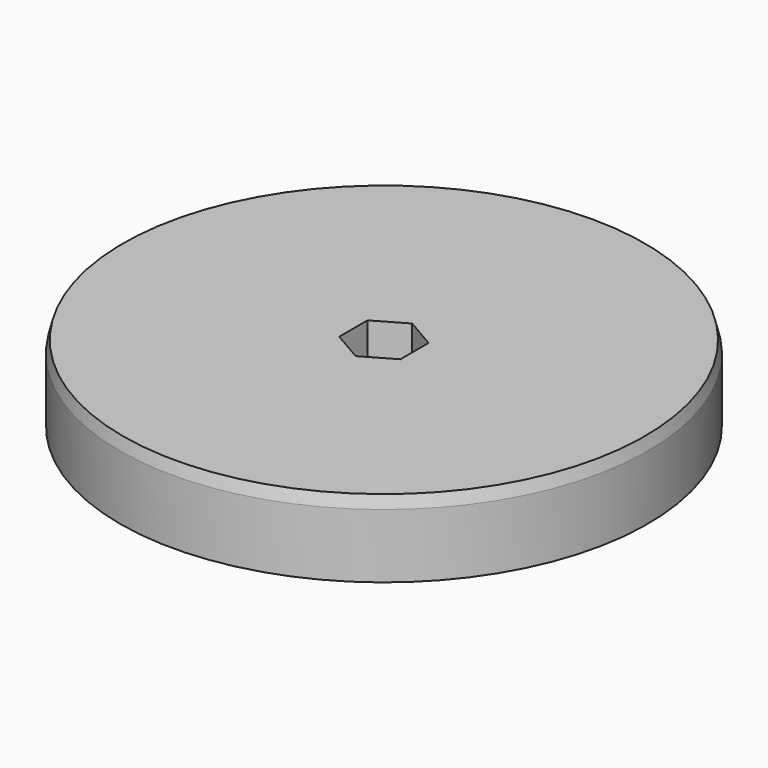
from build123d import *

# Parameters (mm, degrees)
SKETCH001_R       = 3.05
POCKET_DEPTH      = 0.001
POCKET_DEPTH_BACK = -12.701
POCKET001_DEPTH   = 6


with BuildPart() as part:
    # Sketch → Revolution (revolve)
    with BuildSketch(Plane.YZ):
        Polygon((0, 12.7), (43.5, 12.7), (44, 10.7), (44, 0), (0, 0), align=None)
    revolve(axis=Axis((0, 0, 0), (0, 0, 1)))

    # Sketch001 → Pocket (cut, two sides)
    with BuildSketch(Plane.XY) as pocket_sk:
        Circle(SKETCH001_R)
    extrude(amount=-POCKET_DEPTH, mode=Mode.SUBTRACT)
    extrude(pocket_sk.sketch, amount=-POCKET_DEPTH_BACK, mode=Mode.SUBTRACT)

    # Sketch002 → Pocket001 (cut)
    with BuildSketch(Plane.XY.offset(12.7)):
        Polygon((0, 5.888973), (-5.1, 2.944486), (-5.1, -2.944486), (0, -5.888973), (5.1, -2.944486), (5.1, 2.944486), align=None)
    extrude(amount=-POCKET001_DEPTH, mode=Mode.SUBTRACT)


solid = part.part
